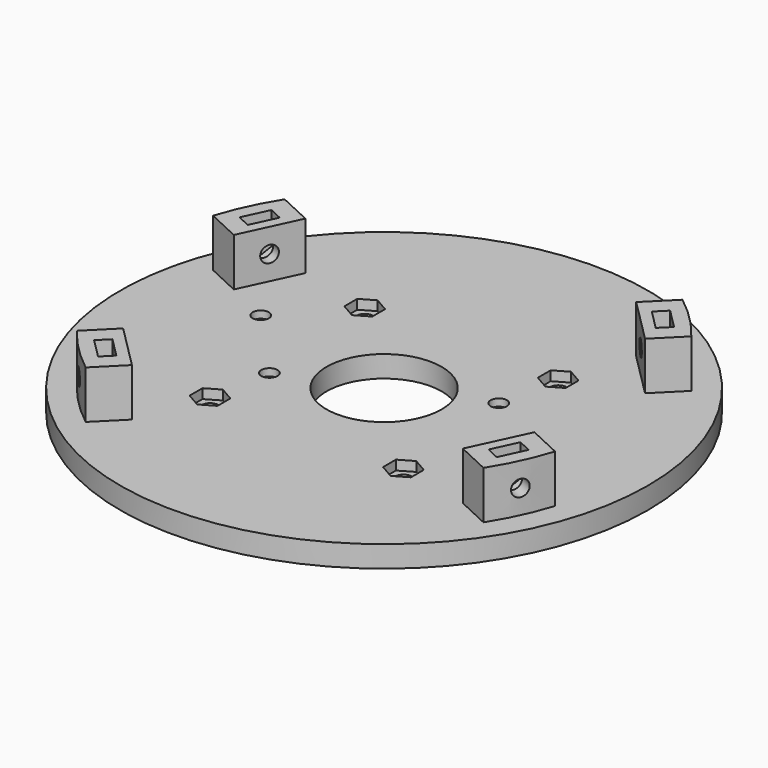
from build123d import *

# Parameters (mm, degrees)
SKETCH_W                       = 43
SKETCH_H                       = 4.5
SKETCH001_R                    = 1.7
POCKET_DEPTH                   = 4.501
POCKET001_DEPTH                = 2
SKETCH003_R                    = 2.95
POCKET002_DEPTH                = 3
PAD_DEPTH                      = 10
SKETCH005_R                    = 1.7
POCKET003_DEPTH                = 348.2583449779
POCKET004_DEPTH                = 1.5
PAD_POLARPATTERN_2_DEPTH       = 10
SKETCH005_POLARPATTERN_2_R     = 1.7
POCKET003_POLARPATTERN_2_DEPTH = 348.2583449779
POCKET004_POLARPATTERN_2_DEPTH = 1.5
POLARPATTERN001_COUNT          = 2


with BuildPart() as part:
    # Sketch → Revolution (revolve)
    with BuildSketch(Plane.XZ):
        with Locations((33.5, 2.25)):
            Rectangle(SKETCH_W, SKETCH_H)
    revolve(axis=Axis((0, 0, 0), (0, 0, 1)))

    # Sketch001 (on Face3 of Revolution) → Pocket (cut, through all)
    with BuildSketch(Plane(origin=(0, 0, 4.5), x_dir=(-1, 0, 0), z_dir=(0, 0, 1))):
        with Locations((-20.1525432638, 20.1525432638)):
            Circle(SKETCH001_R)
        with Locations((20.1525432638, 20.1525432638)):
            Circle(SKETCH001_R)
        with Locations((20.1525432638, -20.1525432638)):
            Circle(SKETCH001_R)
        with Locations((-20.1525432638, -20.1525432638)):
            Circle(SKETCH001_R)
        with Locations((-31.7, 7.5)):
            Circle(SKETCH001_R)
        with Locations((17.9, 7.5)):
            Circle(SKETCH001_R)
        with Locations((-17.9, -7.5)):
            Circle(SKETCH001_R)
        with Locations((31.7, -7.5)):
            Circle(SKETCH001_R)
    extrude(amount=-POCKET_DEPTH, mode=Mode.SUBTRACT)

    # Sketch002 (on Face12 of Pocket) → Pocket001 (cut)
    with BuildSketch(Plane(origin=(0, 0, 4.5), x_dir=(-1, 0, 0), z_dir=(0, 0, 1))):
        Polygon((-17.2513581611, 21.8275432638), (-20.1525432638, 23.5025432638), (-23.0537283665, 21.8275432638), (-23.0537283665, 18.4775432638), (-20.1525432638, 16.8025432638), (-17.2513581611, 18.4775432638), align=None)
        Polygon((20.1525432638, 23.5025432638), (17.2513581611, 21.8275432638), (17.2513581611, 18.4775432638), (20.1525432638, 16.8025432638), (23.0537283665, 18.4775432638), (23.0537283665, 21.8275432638), align=None)
        Polygon((20.1525432638, -16.8025432638), (17.2513581611, -18.4775432638), (17.2513581611, -21.8275432638), (20.1525432638, -23.5025432638), (23.0537283665, -21.8275432638), (23.0537283665, -18.4775432638), align=None)
        Polygon((-20.1525432638, -16.8025432638), (-23.0537283665, -18.4775432638), (-23.0537283665, -21.8275432638), (-20.1525432638, -23.5025432638), (-17.2513581611, -21.8275432638), (-17.2513581611, -18.4775432638), align=None)
    extrude(amount=-POCKET001_DEPTH, mode=Mode.SUBTRACT)

    # Sketch003 (on Face1 of Pocket001) → Pocket002 (cut)
    with BuildSketch(Plane(origin=(0, 0, 0), x_dir=(1, 0, 0), z_dir=(0, 0, -1))):
        with Locations((-17.9, 7.5)):
            Circle(SKETCH003_R)
        with Locations((-31.7, -7.5)):
            Circle(SKETCH003_R)
        with Locations((17.9, -7.5)):
            Circle(SKETCH003_R)
        with Locations((31.7, 7.5)):
            Circle(SKETCH003_R)
    extrude(amount=-POCKET002_DEPTH, mode=Mode.SUBTRACT)

    # Sketch004 (on Face12 of Pocket002) → Pad (join)
    with BuildSketch(Plane(origin=(0, 0, 4.5), x_dir=(-1, 0, 0), z_dir=(0, 0, 1))):
        with BuildLine():
            ThreePointArc((-39.6515075123, -30.4591193569), (-35.3553390593, -35.3553390593), (-30.4591193569, -39.6515075123))
            Line((-25.1022907321, -34.2946788875), (-30.4591193569, -39.6515075123))
            Line((-34.2946788875, -25.1022907321), (-25.1022907321, -34.2946788875))
            Line((-39.6515075123, -30.4591193569), (-34.2946788875, -25.1022907321))
        make_face()
    pad = extrude(amount=PAD_DEPTH)

    # Sketch005 (on Face28 of Pad) → Pocket003 (cut, through all)
    with BuildSketch(Plane(origin=(29.6984848098, 29.6984848098, 0), x_dir=(0, 0, -1), z_dir=(-0.7071067812, -0.7071067812, 0))):
        with Locations((-9.5, 0)):
            Circle(SKETCH005_R)
    pocket003 = extrude(amount=-POCKET003_DEPTH, mode=Mode.SUBTRACT)

    # Sketch006 (on DatumPlane) → Pocket004 (cut, symmetric)
    with BuildSketch(Plane(origin=(32.2794245612, 32.2794245612, 0), x_dir=(0, 0, -1), z_dir=(-0.7071067812, -0.7071067812, 0))):
        Polygon((-6.15, 0), (-7.825, 2.9011851027), (-17.825, 2.9011851027), (-17.825, -2.9011851027), (-7.825, -2.9011851027), align=None)
    pocket004 = extrude(amount=POCKET004_DEPTH, both=True, mode=Mode.SUBTRACT)

    # Sketch004 PolarPattern 2 → Pad PolarPattern 2 (add)
    with BuildSketch(Plane(origin=(0, 0, 4.5), x_dir=(-0.3420201433, 0.9396926208, 0), z_dir=(0, 0, 1))):
        with BuildLine():
            ThreePointArc((-39.6515075123, -30.4591193569), (-35.3553390593, -35.3553390593), (-30.4591193569, -39.6515075123))
            Line((-25.1022907321, -34.2946788875), (-30.4591193569, -39.6515075123))
            Line((-34.2946788875, -25.1022907321), (-25.1022907321, -34.2946788875))
            Line((-39.6515075123, -30.4591193569), (-34.2946788875, -25.1022907321))
        make_face()
    pad_polarpattern_2 = extrude(amount=PAD_POLARPATTERN_2_DEPTH)

    # Sketch005 PolarPattern 2 → Pocket003 PolarPattern 2 (cut, through all)
    with BuildSketch(Plane(origin=(38.0649270555, -17.7499669931, 0), x_dir=(0, 0, -1), z_dir=(-0.906307787, 0.4226182617, 0))):
        with Locations((-9.5, 0)):
            Circle(SKETCH005_POLARPATTERN_2_R)
    pocket003_polarpattern_2 = extrude(amount=-POCKET003_POLARPATTERN_2_DEPTH, mode=Mode.SUBTRACT)

    # Sketch006 PolarPattern 2 → Pocket004 PolarPattern 2 (cut, symmetric)
    with BuildSketch(Plane(origin=(41.3729504782, -19.2925236485, 0), x_dir=(0, 0, -1), z_dir=(-0.906307787, 0.4226182617, 0))):
        Polygon((-6.15, 0), (-7.825, 2.9011851027), (-17.825, 2.9011851027), (-17.825, -2.9011851027), (-7.825, -2.9011851027), align=None)
    pocket004_polarpattern_2 = extrude(amount=POCKET004_POLARPATTERN_2_DEPTH, both=True, mode=Mode.SUBTRACT)

    # PolarPattern001: Pad, Pocket003, Pocket004, Pad PolarPattern 2, Pocket003 PolarPattern 2, Pocket004 PolarPattern 2 ×2 about axis
    polarpattern001_axis = Axis((0, 0, 4.5), (0, 0, 1))
    for i in range(1, POLARPATTERN001_COUNT):
        add(pad.rotate(polarpattern001_axis, i * 360 / POLARPATTERN001_COUNT))
        add(pocket003.rotate(polarpattern001_axis, i * 360 / POLARPATTERN001_COUNT), mode=Mode.SUBTRACT)
        add(pocket004.rotate(polarpattern001_axis, i * 360 / POLARPATTERN001_COUNT), mode=Mode.SUBTRACT)
        add(pad_polarpattern_2.rotate(polarpattern001_axis, i * 360 / POLARPATTERN001_COUNT))
        add(pocket003_polarpattern_2.rotate(polarpattern001_axis, i * 360 / POLARPATTERN001_COUNT), mode=Mode.SUBTRACT)
        add(pocket004_polarpattern_2.rotate(polarpattern001_axis, i * 360 / POLARPATTERN001_COUNT), mode=Mode.SUBTRACT)


solid = part.part
